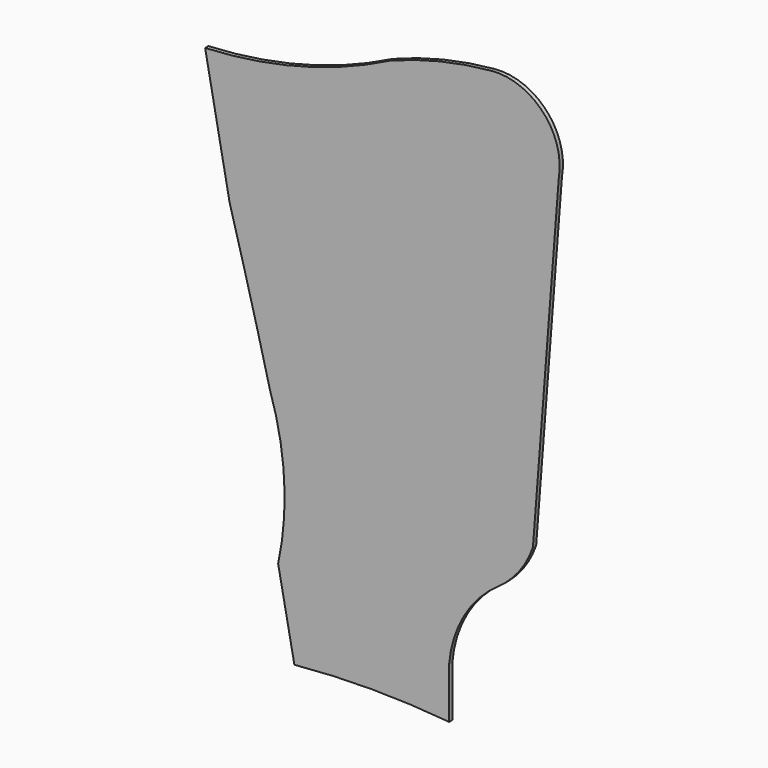
from build123d import *

# Parameters (mm, degrees)
F1_DEPTH = 3.175


with BuildPart() as f1:
    # F0 (on Front) → F1 (new body)
    with BuildSketch(Plane.XZ):
        with BuildLine():
            ThreePointArc((0, 0), (60.5474, 2.836214), (121.094801, 0))
            Line((121.094801, 0), (121.094801, 39.694749))
            ThreePointArc((121.094801, 39.694749), (132.892817, 77.103737), (159.530655, 105.896987))
            ThreePointArc((159.530655, 105.896987), (175.981631, 121.613586), (186.700836, 141.682088))
            Line((186.700836, 141.682088), (206.899133, 402.279344))
            ThreePointArc((206.899133, 402.279344), (194.817851, 443.836045), (154.447494, 459.429344))
            ThreePointArc((154.447494, 459.429344), (113.757659, 452.76355), (74.429211, 440.379344))
            ThreePointArc((74.429211, 440.379344), (4.310649, 413.675943), (-69.85, 402.279344))
            Line((-69.85, 402.279344), (-50.8, 302.48126))
            ThreePointArc((-50.8, 302.48126), (-34.53352, 242.809248), (-19.05, 182.929302))
            ThreePointArc((-19.05, 182.929302), (-7.960813, 124.619596), (-12.7, 65.454302))
            Line((-12.7, 65.454302), (0, 0))
        make_face()
    extrude(amount=F1_DEPTH)


solid = f1.part
